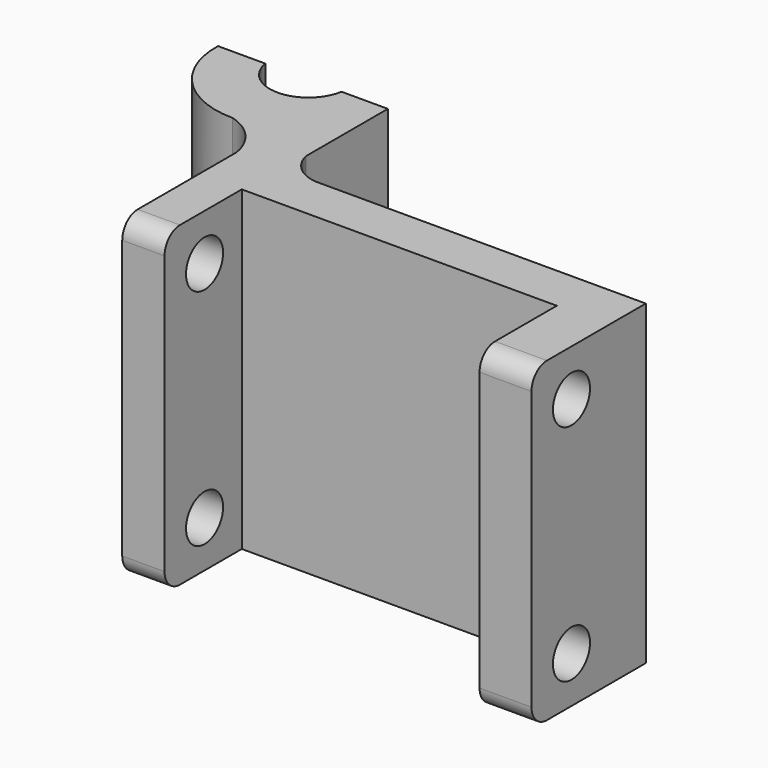
from build123d import *

# Parameters (mm, degrees)
F0_W           = 106
F0_H           = 82
F1_DEPTH       = 12
F2_W           = 10.9627954662
F2_H           = 82
F2_W_2         = 13.4456468225
F3_DEPTH       = 25
F4_R           = 5
F7_DEPTH       = 6
F7_DEPTH_BACK  = 6
F8_R           = 6
F9_DEPTH       = 130
F11_DEPTH      = 82
F12_DEPTH      = 25
F14_DEPTH      = 41
F14_DEPTH_BACK = 41


with BuildPart() as f1:
    # F0 (on Front) → F1 (new body)
    with BuildSketch(Plane.XZ):
        with Locations((53, 41)):
            Rectangle(F0_W, F0_H)
    extrude(amount=F1_DEPTH)

    # F2 (on face) → F3 (join)
    with BuildSketch(Plane.XZ.offset(12)):
        with Locations((5.4813977331, 41)):
            Rectangle(F2_W, F2_H)
        with Locations((99.2771765888, 41)):
            Rectangle(F2_W_2, F2_H)
    extrude(amount=F3_DEPTH)

    # F4
    f4_edges = [f1.edges().sort_by_distance(p)[0] for p in [
        (99.277177, -37, 0),
        (99.277177, -37, 82),
        (5.481398, -37, 82),
        (5.481398, -37, 0),
    ]]
    fillet(f4_edges, radius=F4_R)

    # F8 (on face) → F9 (cut)
    with BuildSketch(Plane.YZ.offset(106)):
        with Locations((-24.0510478616, 12)):
            Circle(F8_R)
        with Locations((-24.0510478616, 70)):
            Circle(F8_R)
    extrude(amount=-F9_DEPTH, mode=Mode.SUBTRACT)



with BuildPart() as f7:
    # F6 (on mid) → F7 (new body, two sides)
    with BuildSketch(Plane(origin=(0, 0, 41), x_dir=(1, 0, 0), z_dir=(0, 0, -1))) as f7_sk:
        Polygon((12.0673676431, -34), (106, 0), (12.0673676431, 0), align=None)
    extrude(amount=F7_DEPTH)
    extrude(f7_sk.sketch, amount=-F7_DEPTH_BACK)


with BuildPart() as f11:
    # F10 (on Top) → F11 (new body)
    with BuildSketch(Plane.XY):
        with BuildLine():
            Line((22.4237125367, 0), (20.3928796507, 0))
            ThreePointArc((20.3928796507, 0), (21.4082960937, -0.0536304121), (22.4237125367, 0))
        make_face()
        Polygon((0, 34), (0, 0), (12, 0), (12, 7.4871135876), (12, 34), align=None)
        with BuildLine():
            Line((12, 7.4871135876), (12, 0))
            Line((12, 0), (20.3928796507, 0))
            ThreePointArc((20.3928796507, 0), (14.9913136852, 2.3926385074), (12, 7.4871135876))
        make_face()
    extrude(amount=F11_DEPTH)


with BuildPart() as f1_1:
    add(f1.part)

    add(f11.part)  # F12 merges F11
    # F10 (on Top) → F12 (join)
    with BuildSketch(Plane.XY):
        with BuildLine():
            Line((22.4237125367, 0), (20.3928796507, 0))
            ThreePointArc((20.3928796507, 0), (21.4082960937, -0.0536304121), (22.4237125367, 0))
        make_face()
        Polygon((0, 34), (0, 0), (12, 0), (12, 7.4871135876), (12, 34), align=None)
        with BuildLine():
            Line((12, 7.4871135876), (12, 0))
            Line((12, 0), (20.3928796507, 0))
            ThreePointArc((20.3928796507, 0), (14.9913136852, 2.3926385074), (12, 7.4871135876))
        make_face()
    extrude(amount=F12_DEPTH)

    # F13 (on mid) → F14 (join, two sides)
    with BuildSketch(Plane(origin=(0, 0, 41), x_dir=(1, 0, 0), z_dir=(0, 0, -1))) as f14_sk:
        with BuildLine():
            ThreePointArc((0, 0), (-3.3544641669, -7.0953494382), (-10, -11.270665832))
            ThreePointArc((-10, -11.270665832), (-25.8199946765, -17.9700012306), (-32, -34))
            Line((-32, -34), (-19.7342908604, -34))
            ThreePointArc((-19.7342908604, -34), (-9.8671454302, -25.6246356698), (0, -34))
            Line((0, -34), (0, 0))
        make_face()
    extrude(amount=F14_DEPTH)
    extrude(f14_sk.sketch, amount=-F14_DEPTH_BACK)


solid = Compound([f7.part, f1_1.part])
